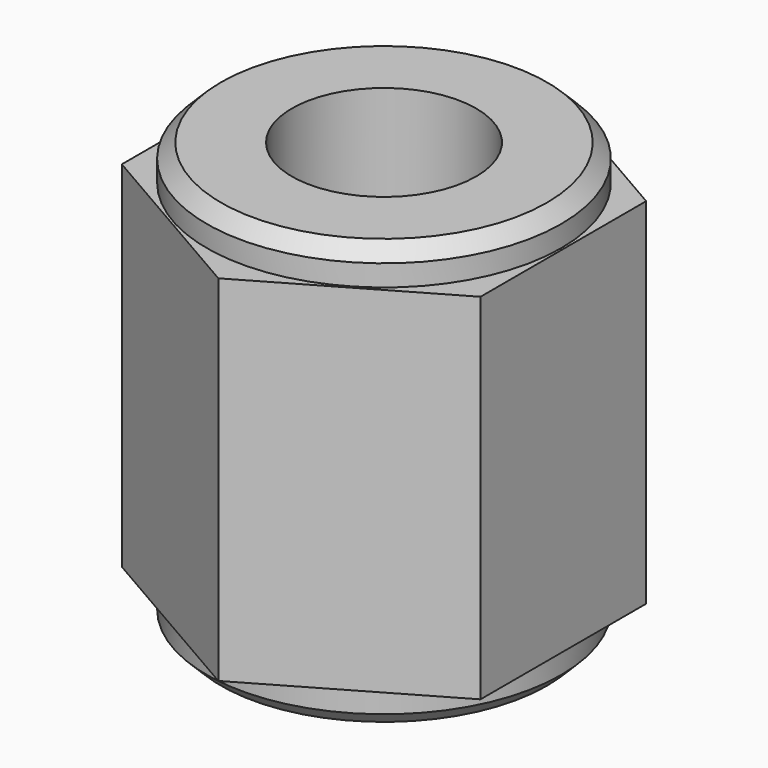
from build123d import *

# Parameters (mm, degrees)
SKETCH001_R   = 2.5
SKETCH001_R_2 = 1.3
PAD001_DEPTH  = 6
SKETCH002_R   = 1.3
PAD002_DEPTH  = 5
CHAMFER_SIZE  = 0.2


with BuildPart() as part:
    # Sketch001 → Pad001 (new body)
    with BuildSketch(Plane.XY):
        Circle(SKETCH001_R)
        Circle(SKETCH001_R_2, mode=Mode.SUBTRACT)
    extrude(amount=PAD001_DEPTH)

    # Sketch002 → Pad002 (join)
    with BuildSketch(Plane.XY.offset(0.5)):
        Polygon((2.53, -1.460696), (2.53, 1.460696), (0, 2.921392), (-2.53, 1.460696), (-2.53, -1.460696), (0, -2.921392), align=None)
        Circle(SKETCH002_R, mode=Mode.SUBTRACT)
    extrude(amount=PAD002_DEPTH)

    # Chamfer
    chamfer_edges = [part.edges().sort_by_distance(p)[0] for p in [
        (-2.5, 0, 6),
        (-2.5, 0, 0),
    ]]
    chamfer(chamfer_edges, length=CHAMFER_SIZE)


solid = part.part
